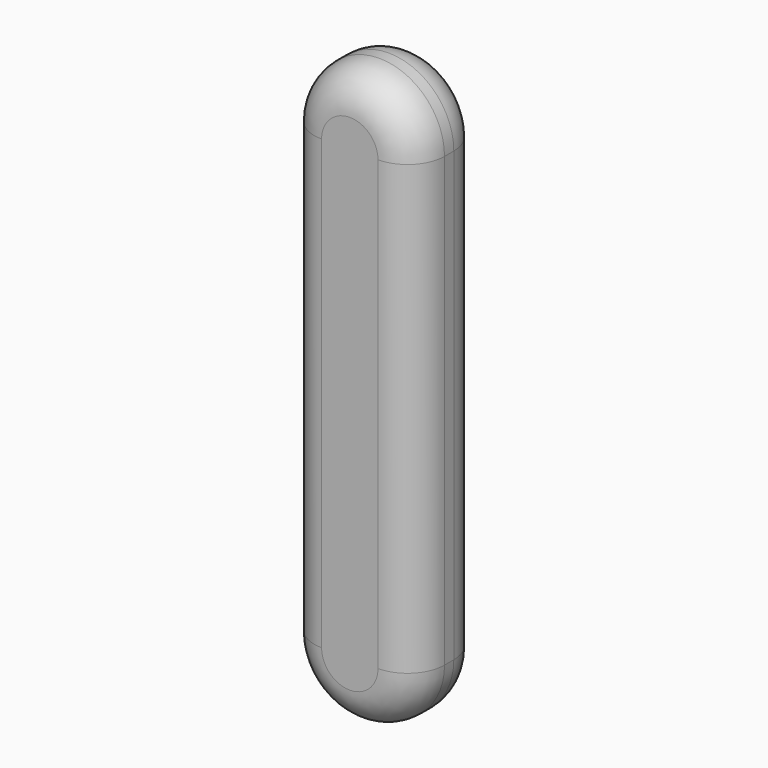
from build123d import *

# Parameters (mm, degrees)
F1_DEPTH = 7.112
F2_R     = 3.0734


with BuildPart() as f1:
    # F0 (on Front) → F1 (new body)
    with BuildSketch(Plane.XZ):
        with BuildLine():
            Line((-5.833062, 5.073665), (-5.833062, -2.089096))
            ThreePointArc((-5.833062, -2.089096), (-0.414611, 3.329354), (5.003839, -2.089096))
            Line((5.003839, -2.089096), (5.003839, 1.10841))
            Line((5.003839, 1.10841), (5.003839, 9.281913))
            ThreePointArc((5.003839, 9.281913), (-0.414611, 14.700363), (-5.833062, 9.281913))
            Line((-5.833062, 9.281913), (-5.833062, 5.073665))
        make_face()
        with BuildLine():
            Line((5.003839, -2.089096), (-5.833062, -2.089096))
            ThreePointArc((-5.833062, -2.089096), (-0.414611, -7.507547), (5.003839, -2.089096))
        make_face()
        with BuildLine():
            ThreePointArc((5.003839, -2.089096), (-0.414611, 3.329354), (-5.833062, -2.089096))
            Line((-5.833062, -2.089096), (5.003839, -2.089096))
        make_face()
        with BuildLine():
            Line((-5.833062, -2.089096), (-5.833062, -27.969601))
            ThreePointArc((-5.833062, -27.969601), (-0.414611, -33.388051), (5.003839, -27.969601))
            Line((5.003839, -27.969601), (5.003839, -9.071903))
            Line((5.003839, -9.071903), (5.003839, -2.089096))
            ThreePointArc((5.003839, -2.089096), (-0.414611, -7.507547), (-5.833062, -2.089096))
        make_face()
    extrude(amount=F1_DEPTH)

    # F2
    f2_edges = [f1.edges().sort_by_distance(p)[0] for p in [
        (5.003839, -7.112, -9.343844),
        (5.003839, 0, -9.343844),
        (-0.414611, -7.112, 14.700363),
        (-0.414611, 0, 14.700363),
        (-0.414611, 0, -33.388051),
        (-0.414611, -7.112, -33.388051),
        (-5.833062, 0, -9.343844),
        (-5.833062, -7.112, -9.343844),
    ]]
    fillet(f2_edges, radius=F2_R)


solid = f1.part
